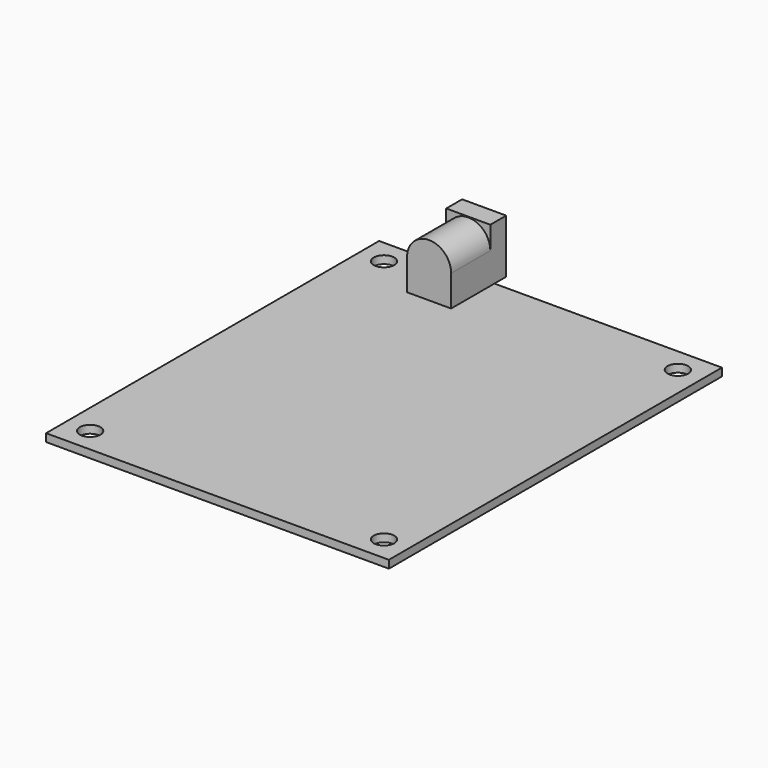
from build123d import *

# Parameters (mm, degrees)
SKETCH004_W             = 85
SKETCH004_H             = 70
SKETCH004_R             = 2.1
PAD003_DEPTH            = 1.6
SKETCH005_W             = 14.05
SKETCH005_H             = 9
PAD004_DEPTH            = 11
SKETCH006_R             = 3.25
SKETCH006_R_2           = 1.05
POCKET001_DEPTH         = 9.5
FILLET_R                = 0.5
POCKET002_DEPTH         = 10
BODY002_PLACEMENT_ANGLE = 90


with BuildPart() as part:
    # Sketch004 → Pad003 (new body)
    with BuildSketch(Plane.XY):
        with Locations((-7.5, 0)):
            Rectangle(SKETCH004_W, SKETCH004_H)
        with Locations((-45, -30)):
            Circle(SKETCH004_R, mode=Mode.SUBTRACT)
        with Locations((30, -30)):
            Circle(SKETCH004_R, mode=Mode.SUBTRACT)
        with Locations((-45, 30)):
            Circle(SKETCH004_R, mode=Mode.SUBTRACT)
        with Locations((30, 30)):
            Circle(SKETCH004_R, mode=Mode.SUBTRACT)
    extrude(amount=PAD003_DEPTH)

    # Sketch005 (on Face10 of Pad003) → Pad004 (join)
    with BuildSketch(Plane.XY.offset(1.6)):
        with Locations((30.975, 15.95)):
            Rectangle(SKETCH005_W, SKETCH005_H)
    extrude(amount=PAD004_DEPTH)

    # Sketch006 (on Face15 of Pad004) → Pocket001 (cut)
    with BuildSketch(Plane.YZ.offset(38)):
        with Locations((15.95, 8.1)):
            Circle(SKETCH006_R)
        with Locations((15.95, 8.1)):
            Circle(SKETCH006_R_2, mode=Mode.SUBTRACT)
    extrude(amount=-POCKET001_DEPTH, mode=Mode.SUBTRACT)

    # Fillet
    fillet_edges = [part.edges().sort_by_distance(p)[0] for p in [
        (38, 14.9, 8.1),
    ]]
    fillet(fillet_edges, radius=FILLET_R)

    # Sketch007 (on Face11 of Fillet) → Pocket002 (cut)
    with BuildSketch(Plane(origin=(23.95, 0, 0), x_dir=(0, -1, 0), z_dir=(-1, 0, 0))):
        with BuildLine():
            ThreePointArc((-11.45, 7.95), (-15.95, 12.45), (-20.45, 7.95))
            Line((-20.45, 7.95), (-20.45, 12.6))
            Line((-20.45, 12.6), (-11.45, 12.6))
            Line((-11.45, 12.6), (-11.45, 7.95))
        make_face()
    extrude(amount=-POCKET002_DEPTH, mode=Mode.SUBTRACT)


with BuildPart() as part_1:
    # Body002 placement: moved
    add(part.part.moved(Location((0, 31, 10.6))).rotate(Axis((0, 31, 10.6), (0, 0, 1)), BODY002_PLACEMENT_ANGLE))


solid = part_1.part
